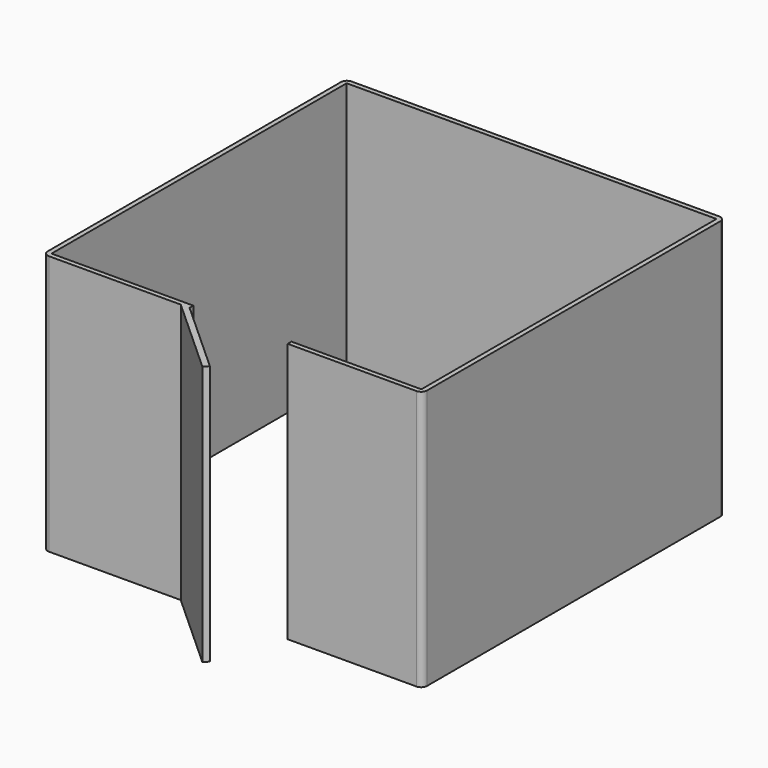
from build123d import *

# Parameters (mm, degrees)
F1_DEPTH = 2200


with BuildPart() as f1:
    # F0 (on Top) → F1 (new body)
    with BuildSketch(Plane.XY):
        with BuildLine():
            ThreePointArc((-114.00585, 2326.455229), (-149.254291, 2311.752355), (-163.840562, 2276.455502))
            Line((-163.840562, 2276.455502), (-163.840562, -823.543952))
            ThreePointArc((-163.840562, -823.543952), (-149.137415, -858.957681), (-113.675274, -873.543678))
            Line((-113.675274, -873.543678), (998.390225, -869.867441))
            Line((998.390225, -869.867441), (1665.001438, -1474.540486))
            Line((1665.001438, -1474.540486), (1698.594385, -1437.50653))
            Line((1698.594385, -1437.50653), (1072.540377, -869.622317))
            Line((1072.540377, -869.622317), (1072.408147, -829.622536))
            Line((1072.408147, -829.622536), (-123.840562, -833.577064))
            Line((-123.840562, -833.577064), (-123.840562, 2286.422499))
            Line((-123.840562, 2286.422499), (2996.141953, 2296.736457))
            Line((2996.141953, 2296.736457), (2996.141953, -823.263105))
            Line((2996.141953, -823.263105), (1899.56921, -826.888128))
            Line((1899.56921, -826.888128), (1900.828944, -866.884182))
            Line((1900.828944, -866.884182), (2986.307241, -863.295835))
            ThreePointArc((2986.307241, -863.295835), (3021.555682, -848.592961), (3036.141953, -813.296109))
            Line((3036.141953, -813.296109), (3036.141953, 2286.703345))
            ThreePointArc((3036.141953, 2286.703345), (3021.438806, 2322.117074), (2985.976665, 2336.703072))
            Line((2985.976665, 2336.703072), (-114.00585, 2326.455229))
        make_face()
    extrude(amount=F1_DEPTH)


solid = f1.part
